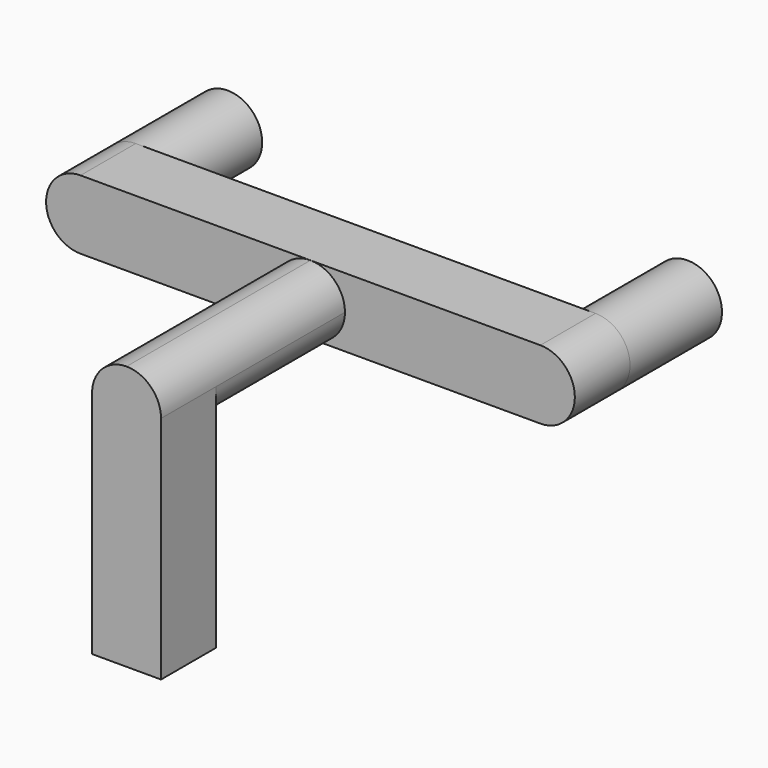
from build123d import *

# Parameters (mm, degrees)
F2_DEPTH = 30
F4_DEPTH = 100
F6_R     = 15
F7_DEPTH = 50
F9_DEPTH = 100


with BuildPart() as f2:
    # F1 (on offset) → F2 (new body)
    with BuildSketch(Plane.XZ.offset(50)):
        with BuildLine():
            Line((100, 15), (-100, 15))
            ThreePointArc((-100, 15), (-115, 0), (-100, -15))
            Line((-100, -15), (100, -15))
            ThreePointArc((100, -15), (115, 0), (100, 15))
        make_face()
    extrude(amount=F2_DEPTH)

    # F3 (on face) → F4 (join)
    with BuildSketch(Plane.XZ.offset(80)):
        with BuildLine():
            ThreePointArc((0, -15), (10.606602, -10.606602), (15, 0))
            ThreePointArc((15, 0), (10.606602, 10.606602), (0, 15))
            ThreePointArc((0, 15), (-15, 0), (0, -15))
        make_face()
    extrude(amount=F4_DEPTH)

    # F6 (on face) → F7 (join)
    with BuildSketch(Plane(origin=(0, -50, 0), x_dir=(-1, 0, 0), z_dir=(0, 1, 0))):
        with Locations((-100, 0)):
            Circle(F6_R)
        with Locations((100, 0)):
            Circle(F6_R)
    extrude(amount=F7_DEPTH)

    # F8 (on Top) → F9 (join)
    with BuildSketch(Plane.XY):
        Polygon((-15, -180), (0, -180), (15, -180), (15, -150), (-15, -150), align=None)
    extrude(amount=-F9_DEPTH)


solid = f2.part
